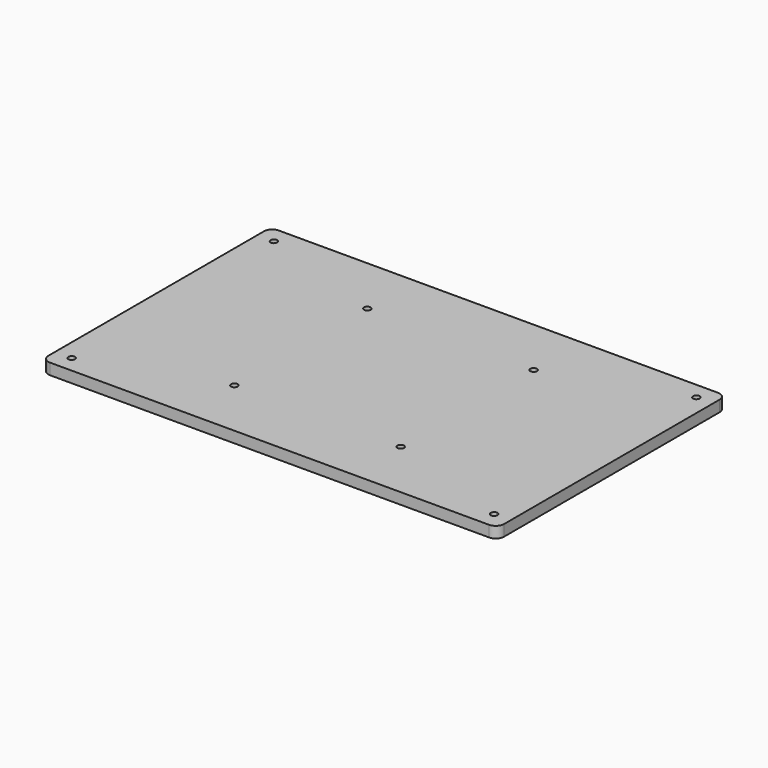
from build123d import *

# Parameters (mm, degrees)
F0_R     = 2
F1_DEPTH = 6.7


with BuildPart() as f1:
    # F0 (on Top) → F1 (new body)
    with BuildSketch(Plane.XY):
        with BuildLine():
            ThreePointArc((137, 81), (135.535534, 84.535534), (132, 86))
            Line((132, 86), (-132, 86))
            ThreePointArc((-132, 86), (-135.535534, 84.535534), (-137, 81))
            Line((-137, 81), (-137, -81))
            ThreePointArc((-137, -81), (-135.535534, -84.535534), (-132, -86))
            Line((-132, -86), (132, -86))
            ThreePointArc((132, -86), (135.535534, -84.535534), (137, -81))
            Line((137, -81), (137, 81))
        make_face()
        with Locations((-127, -76)):
            Circle(F0_R, mode=Mode.SUBTRACT)
        with Locations((-50, -50)):
            Circle(F0_R, mode=Mode.SUBTRACT)
        with Locations((50, -50)):
            Circle(F0_R, mode=Mode.SUBTRACT)
        with Locations((127, -76)):
            Circle(F0_R, mode=Mode.SUBTRACT)
        with Locations((-127, 76)):
            Circle(F0_R, mode=Mode.SUBTRACT)
        with Locations((-50, 50)):
            Circle(F0_R, mode=Mode.SUBTRACT)
        with Locations((50, 50)):
            Circle(F0_R, mode=Mode.SUBTRACT)
        with Locations((127, 76)):
            Circle(F0_R, mode=Mode.SUBTRACT)
    extrude(amount=F1_DEPTH)


solid = f1.part
